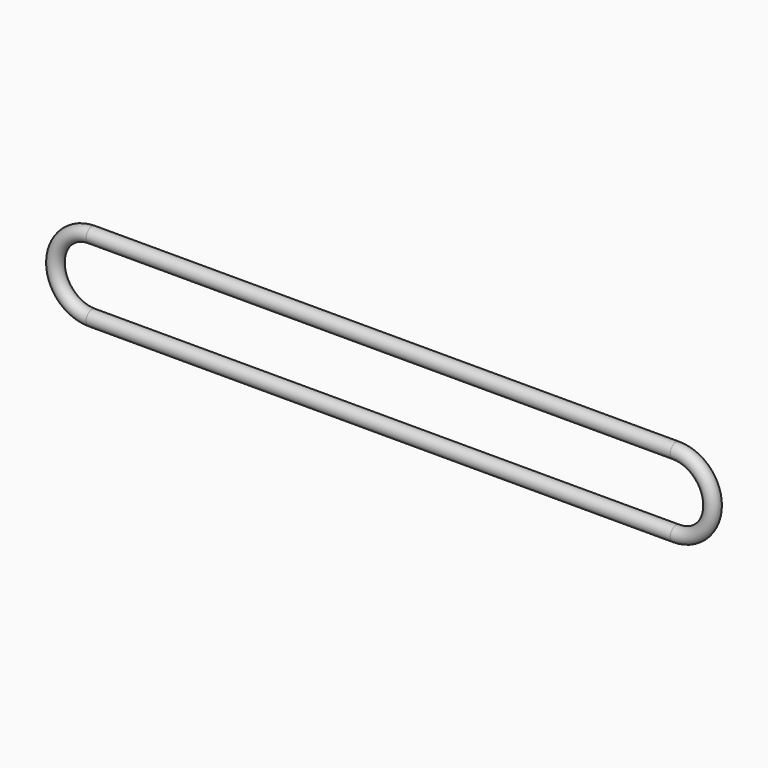
from build123d import *

# Parameters (mm, degrees)
F1_R = 5


with BuildPart() as f2:
    # F2: sweep along a path in F0
    with BuildLine(Plane.XZ) as f2_path:
        Line((-200, 25), (200, 25))
        ThreePointArc((200, 25), (225, 0), (200, -25))
        Line((200, -25), (-200, -25))
        ThreePointArc((-200, -25), (-225, 0), (-200, 25))
    # F1 (on Right) → F2 (sweep)
    with BuildSketch(Plane.YZ):
        with Locations((0, 25)):
            Circle(F1_R)
    sweep(path=f2_path.line)


solid = f2.part
